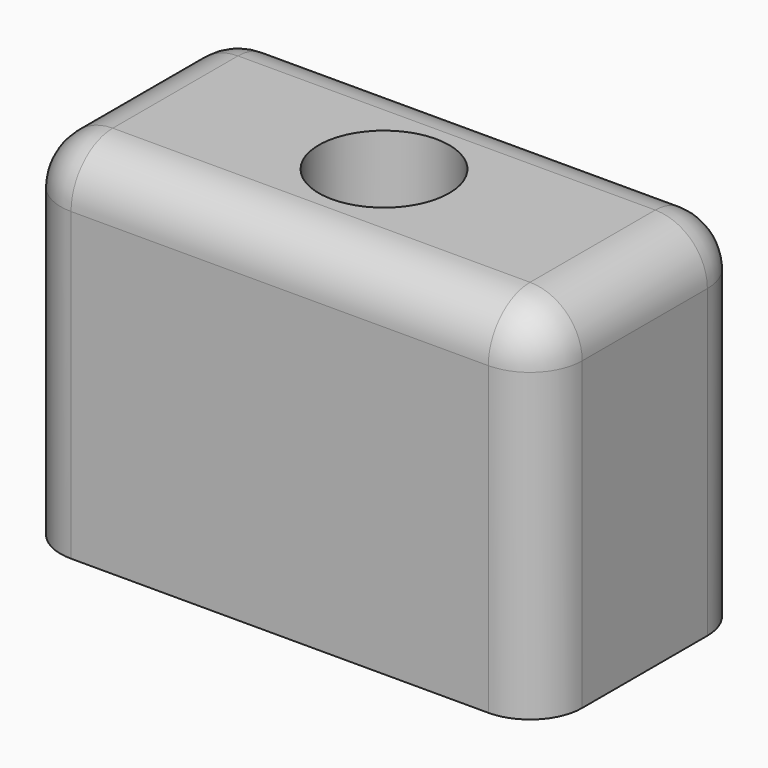
from build123d import *

# Parameters (mm, degrees)
F0_W     = 100
F0_H     = 50
F0_R     = 12.5
F1_DEPTH = 68.6
F2_R     = 10


with BuildPart() as f1:
    # F0 (on Top) → F1 (new body)
    with BuildSketch(Plane.XY):
        Rectangle(F0_W, F0_H)
        Circle(F0_R, mode=Mode.SUBTRACT)
    extrude(amount=F1_DEPTH)

    # F2
    f2_edges = [f1.edges().sort_by_distance(p)[0] for p in [
        (50, 0, 68.6),
        (0, -25, 68.6),
        (-50, 0, 68.6),
        (0, 25, 68.6),
        (50, 25, 34.3),
        (50, -25, 34.3),
        (-50, -25, 34.3),
        (-50, 25, 34.3),
    ]]
    fillet(f2_edges, radius=F2_R)


solid = f1.part
